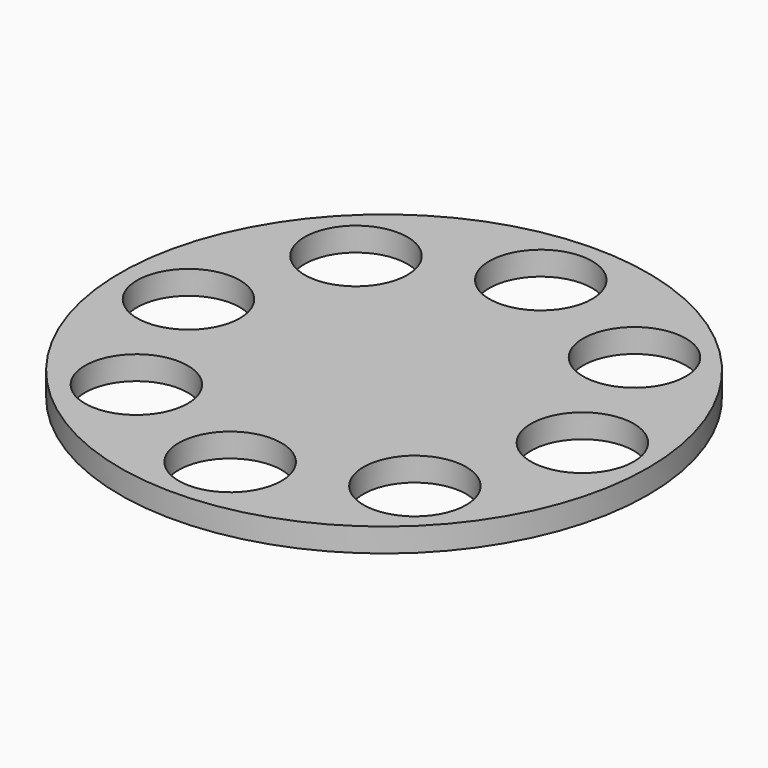
from build123d import *

# Parameters (mm, degrees)
F0_R     = 55.589528
F0_R_2   = 10.819982
F1_DEPTH = 5


with BuildPart() as f1:
    # F0 (on Top) → F1 (new body)
    with BuildSketch(Plane.XY):
        Circle(F0_R)
        with Locations((-28.674008, -29.36661)):
            Circle(F0_R_2, mode=Mode.SUBTRACT)
        with Locations((-40.956888, -0.286885)):
            Circle(F0_R_2, mode=Mode.SUBTRACT)
        with Locations((0.57377, -41.243773)):
            Circle(F0_R_2, mode=Mode.SUBTRACT)
        with Locations((29.653495, -28.960893)):
            Circle(F0_R_2, mode=Mode.SUBTRACT)
        with Locations((-29.079725, 28.960893)):
            Circle(F0_R_2, mode=Mode.SUBTRACT)
        with Locations((41.530658, 0.286885)):
            Circle(F0_R_2, mode=Mode.SUBTRACT)
        with Locations((0, 41.243773)):
            Circle(F0_R_2, mode=Mode.SUBTRACT)
        with Locations((29.247778, 29.36661)):
            Circle(F0_R_2, mode=Mode.SUBTRACT)
    extrude(amount=F1_DEPTH)


solid = f1.part
